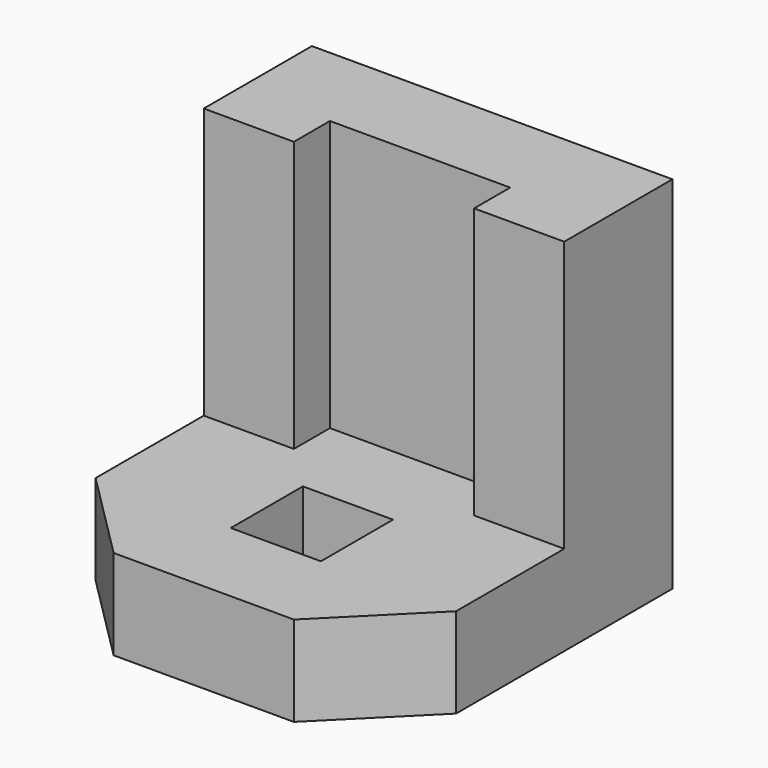
from build123d import *

# Parameters (mm, degrees)
F0_W     = 101.6
F0_H     = 101.6
F1_DEPTH = 101.6
F3_DEPTH = 76.2
F5_DEPTH = 87.376
F6_W     = 25.4
F6_H     = 25.4
F7_DEPTH = 103.378


with BuildPart() as f1:
    # F0 (on Front) → F1 (new body)
    with BuildSketch(Plane.XZ):
        with Locations((-50.8, 32.4291425377)):
            Rectangle(F0_W, F0_H)
    extrude(amount=F1_DEPTH)

    # F2 (on face) → F3 (cut)
    with BuildSketch(Plane.XY.offset(83.2291425377)):
        Polygon((-76.2, -38.1), (-101.6, -38.1), (-101.6, -101.6), (0, -101.6), (0, -38.1), (-25.4, -38.1), (-25.4, -25.4), (-76.2, -25.4), align=None)
    extrude(amount=-F3_DEPTH, mode=Mode.SUBTRACT)

    # F4 (on face) → F5 (cut)
    with BuildSketch(Plane.XY.offset(7.0291425377)):
        Polygon((-76.2, -101.6), (-101.6, -76.2), (-101.6, -101.6), align=None)
        Polygon((0, -76.2), (-25.4, -101.6), (0, -101.6), align=None)
    extrude(amount=-F5_DEPTH, mode=Mode.SUBTRACT)

    # F6 (on face) → F7 (cut)
    with BuildSketch(Plane.XY.offset(7.0291425377)):
        with Locations((-50.8, -63.5)):
            Rectangle(F6_W, F6_H)
    extrude(amount=-F7_DEPTH, mode=Mode.SUBTRACT)


solid = f1.part
